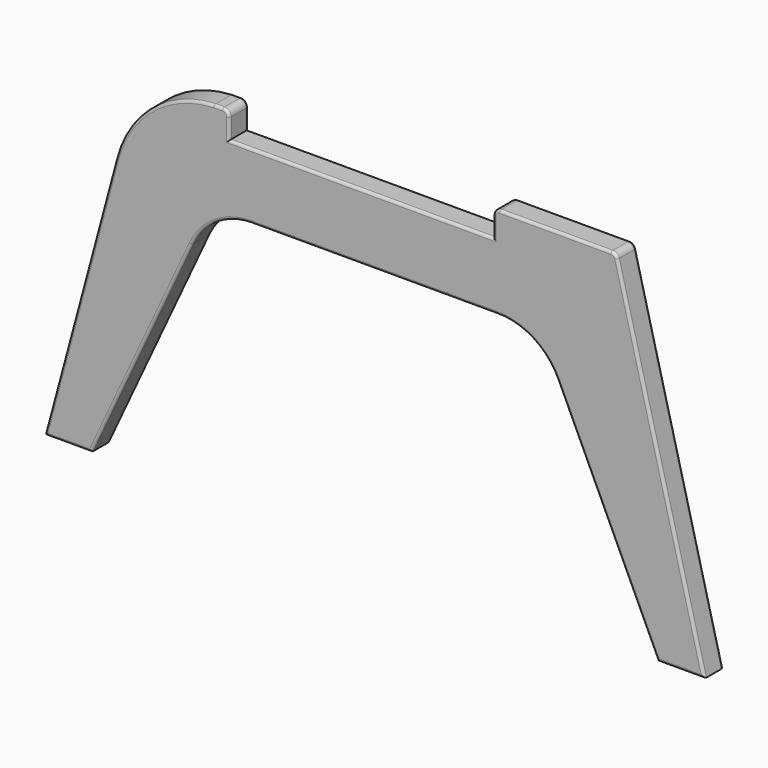
from build123d import *

# Parameters (mm, degrees)
F1_DEPTH = 18
F2_R     = 2


with BuildPart() as f1:
    # F0 (on Front) → F1 (new body)
    with BuildSketch(Plane.XZ):
        with BuildLine():
            Line((54.3322916932, 202.7708730905), (0, 0))
            Line((0, 0), (35.456227742, 0))
            Line((35.456227742, 0), (111.5254217963, 163.130913087))
            ThreePointArc((111.5254217963, 163.130913087), (129.9758307308, 184.1695722906), (156.8408111482, 192))
            Line((156.8408111482, 192), (343.1591888518, 192))
            ThreePointArc((343.1591888518, 192), (370.0241692692, 184.1695722906), (388.4745782037, 163.130913087))
            Line((388.4745782037, 163.130913087), (464.543772258, 0))
            Line((464.543772258, 0), (500, 0))
            Line((500, 0), (434.0056960838, 258.2940952255))
            ThreePointArc((434.0056960838, 258.2940952255), (432.2198740974, 260.9667667015), (429.1760669523, 262))
            Line((429.1760669523, 262), (371.6265428539, 262))
            Line((371.6265428539, 262), (344.9233630828, 262))
            ThreePointArc((344.9233630828, 262), (341.3878291768, 260.5355339059), (339.9233630828, 257))
            Line((339.9233630828, 257), (339.9233630828, 242))
            Line((339.9233630828, 242), (139.9233630828, 242))
            Line((139.9233630828, 242), (139.9233630828, 257))
            ThreePointArc((139.9233630828, 257), (138.4588969887, 260.5355339059), (134.9233630828, 262))
            Line((134.9233630828, 262), (128.3734571461, 262))
            ThreePointArc((128.3734571461, 262), (81.6327118159, 244.5364204466), (54.3322916932, 202.7708730905))
        make_face()
    extrude(amount=F1_DEPTH)

    # F2
    f2_edges = [f1.edges().sort_by_distance(p)[0] for p in [
        (339.923363, -18, 249.5),
        (239.923363, -18, 242),
        (139.923363, -18, 249.5),
        (138.458897, -18, 260.535534),
        (131.64841, -18, 262),
        (81.632712, -18, 244.53642),
        (27.166146, -18, 101.385437),
        (17.728114, -18, 0),
        (73.490825, -18, 81.565457),
        (129.975831, -18, 184.169572),
        (250, -18, 192),
        (370.024169, -18, 184.169572),
        (426.509175, -18, 81.565457),
        (482.271886, -18, 0),
        (467.002848, -18, 129.147048),
        (432.219874, -18, 260.966767),
        (387.049715, -18, 262),
        (341.387829, -18, 260.535534),
        (339.923363, 0, 249.5),
        (239.923363, 0, 242),
        (139.923363, 0, 249.5),
        (138.458897, 0, 260.535534),
        (131.64841, 0, 262),
        (81.632712, 0, 244.53642),
        (27.166146, 0, 101.385437),
        (17.728114, 0, 0),
        (73.490825, 0, 81.565457),
        (129.975831, 0, 184.169572),
        (250, 0, 192),
        (370.024169, 0, 184.169572),
        (426.509175, 0, 81.565457),
        (482.271886, 0, 0),
        (467.002848, 0, 129.147048),
        (432.219874, 0, 260.966767),
        (387.049715, 0, 262),
        (341.387829, 0, 260.535534),
    ]]
    fillet(f2_edges, radius=F2_R)


solid = f1.part
